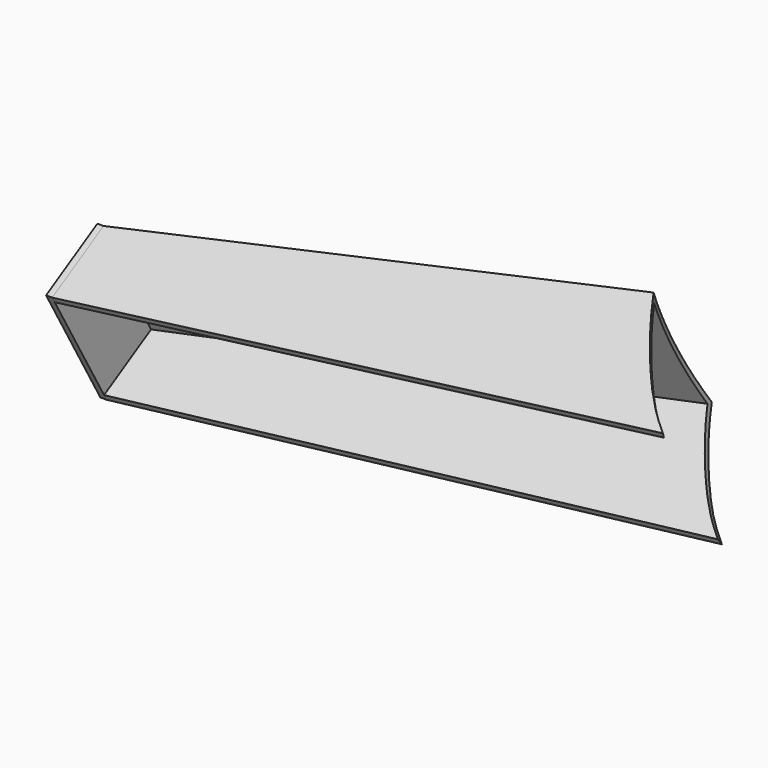
from build123d import *

# Parameters (mm, degrees)
SKETCH117_W             = 69.85
SKETCH117_H             = 38.1
PAD025_DEPTH            = 3.175
BODY035_PLACEMENT_ANGLE = 120


with BuildPart() as part:
    # Sketch115 → AdditiveLoft002 section 0
    with BuildSketch(Plane(origin=(-254, 0, 101.6), x_dir=(0, 1, 0), z_dir=(1, 0, 0))):
        Polygon((-38.1, 69.85), (-38.1, 0), (38.1, 0), (38.1, 69.8500000001), (34.925, 69.8500000001), (34.925, 3.175), (-34.925, 3.175), (-34.925, 69.85), align=None)
    # Sketch116 → AdditiveLoft002 section 1
    with BuildSketch(Plane(origin=(-558.8, 0, 127), x_dir=(0, 1, 0), z_dir=(1, 0, 0))):
        Polygon((-34.925, 82.55), (-34.925, 44.45), (34.925, 44.45), (34.925, 82.55), (31.75, 82.55), (31.75, 47.625), (-31.75, 47.625), (-31.75, 82.55), align=None)
    loft()

    # Sketch117 (on Face3 of AdditiveLoft002) → Pad025 (new body)
    with BuildSketch(Plane(origin=(-558.8, 0, 101.6), x_dir=(0, 1, 0), z_dir=(-1, 0, 0))):
        with Locations((0, -88.9)):
            Rectangle(SKETCH117_W, SKETCH117_H)
    extrude(amount=PAD025_DEPTH)

    # Sketch118 → Groove004 (revolve, cut)
    with BuildSketch(Plane.XZ):
        with BuildLine():
            ThreePointArc((-285.6448342114, 160.9012244898), (-330.0079117171, 85.8263739972), (-345.44, 0))
            Line((-345.44, 0), (0, 0))
            Line((0, 203.2), (0, 0))
            Line((-193.3141946016, 203.2), (0, 203.2))
            ThreePointArc((-193.3141946016, 203.2), (-244.0934556744, 192.1220184086), (-285.6448342114, 160.9012244898))
        make_face()
    revolve(axis=Axis((0, 0, 0), (1, 0, 0)), mode=Mode.SUBTRACT)


with BuildPart() as part_1:
    # Body035 placement: moved
    add(part.part.rotate(Axis((0, 0, 0), (1, 0, 0)), BODY035_PLACEMENT_ANGLE))


solid = part_1.part
